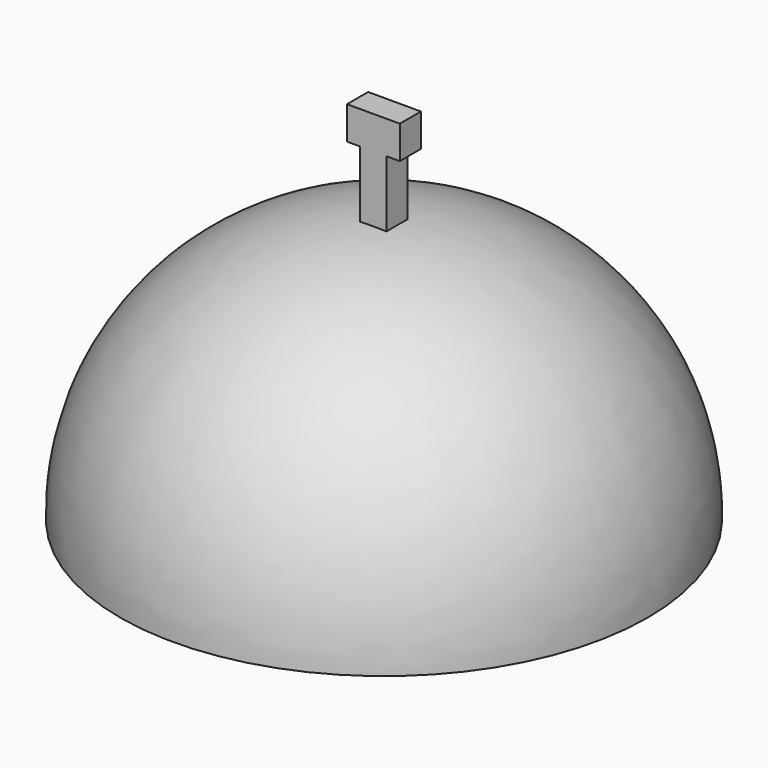
from build123d import *

# Parameters (mm, degrees)
F3_DEPTH = 15.24
F5_START = 44.704
F5_DEPTH = 18.796
F6_W     = 2.54
F6_H     = 5.08
F6_W_2   = 5.08
F7_DEPTH = 6.35
F8_DEPTH = 50.8


with BuildPart() as f1:
    # F0 (on Front) → F1 (revolve)
    with BuildSketch(Plane.XZ):
        with BuildLine():
            Line((0, 50.8), (0, 0))
            Line((0, 0), (50.8, 0))
            ThreePointArc((50.8, 0), (36.2305621639, 36.2305621639), (0, 50.8))
        make_face()
    revolve(axis=Axis((0, 0, 25.4), (0, 0, -1)))

    # F2 (on Top) → F3 (cut)
    with BuildSketch(Plane.XY):
        with BuildLine():
            ThreePointArc((-48.5403721845, 0), (0, -48.5403721845), (48.5403721845, 0))
            ThreePointArc((48.5403721845, 0), (0, 48.5403721845), (-48.5403721845, 0))
        make_face()
    extrude(amount=F3_DEPTH, mode=Mode.SUBTRACT)

    # F4 (on Top) → F5 (join)
    with BuildSketch(Plane.XY.offset(F5_START)):
        Polygon((2.54, -2.54), (2.54, 0), (2.54, 2.54), (-2.54, 2.54), (-2.54, -2.54), align=None)
    extrude(amount=F5_DEPTH)

    # F6 (on face) → F7 (join)
    with BuildSketch(Plane.XY.offset(63.5)):
        with Locations((-3.81, 0)):
            Rectangle(F6_W, F6_H)
        with Locations((3.81, 0)):
            Rectangle(F6_W, F6_H)
        Rectangle(F6_W_2, F6_H)
    extrude(amount=F7_DEPTH)

    # F4 (on Top) → F8 (cut)
    with BuildSketch(Plane.XY):
        Polygon((2.54, -2.54), (2.54, 0), (2.54, 2.54), (-2.54, 2.54), (-2.54, -2.54), align=None)
    extrude(amount=-F8_DEPTH, mode=Mode.SUBTRACT)


solid = f1.part
